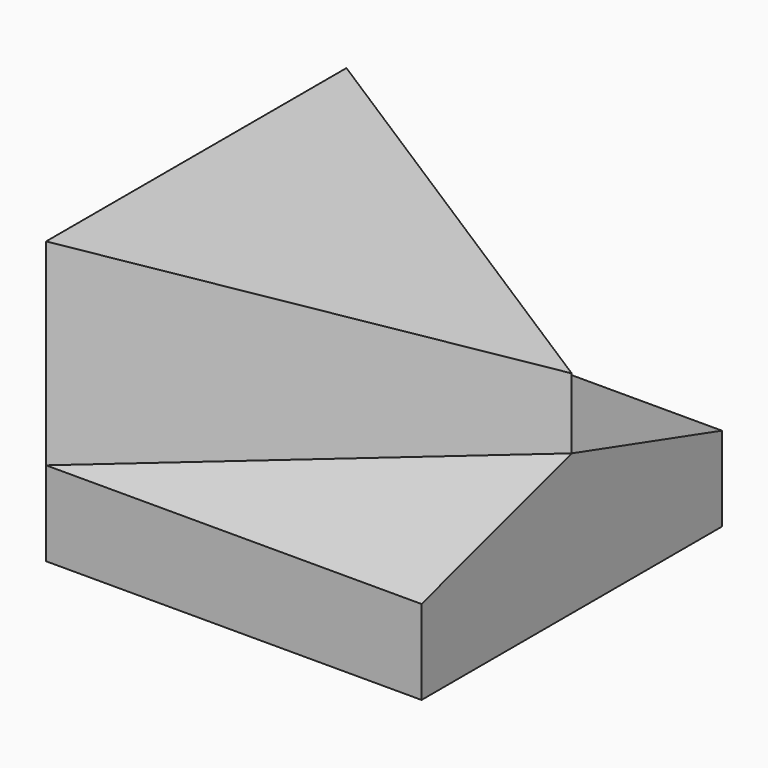
from build123d import *

# Parameters (mm, degrees)
F1_DEPTH = 15
F3_DEPTH = 40.001
F4_DEPTH = 30
F8_DEPTH = 7.372541402


with BuildPart() as f1:
    # F0 (on Top) → F1 (new body)
    with BuildSketch(Plane.XY):
        Polygon((40, 20), (0, 0), (40, 0), align=None)
        Polygon((0, 40), (0, 0), (40, 20), align=None)
        Polygon((40, 40), (0, 40), (40, 20), align=None)
    extrude(amount=F1_DEPTH)

    # F2 (on face) → F3 (cut, through all)
    with BuildSketch(Plane.YZ.offset(40)):
        Polygon((0, 9), (20, 15), (0, 15), align=None)
        Polygon((40, 15), (20, 15), (40, 9), align=None)
    extrude(amount=-F3_DEPTH, mode=Mode.SUBTRACT)

    # F0 (on Top) → F4 (join)
    with BuildSketch(Plane.XY):
        Polygon((0, 40), (0, 0), (40, 20), align=None)
    extrude(amount=F4_DEPTH)

    # F7 (on 3pt) → F8 (cut, through all)
    with BuildSketch(Plane(origin=(5.4339622642, 0, 28.9811320755), x_dir=(0.9828721869, 0, -0.1842885351), z_dir=(-0.1842885351, 0, -0.9828721869))):
        Polygon((35.1683954387, -20), (-5.5286560515, 0), (-5.5286560515, -40), align=None)
    extrude(amount=-F8_DEPTH, mode=Mode.SUBTRACT)


solid = f1.part
